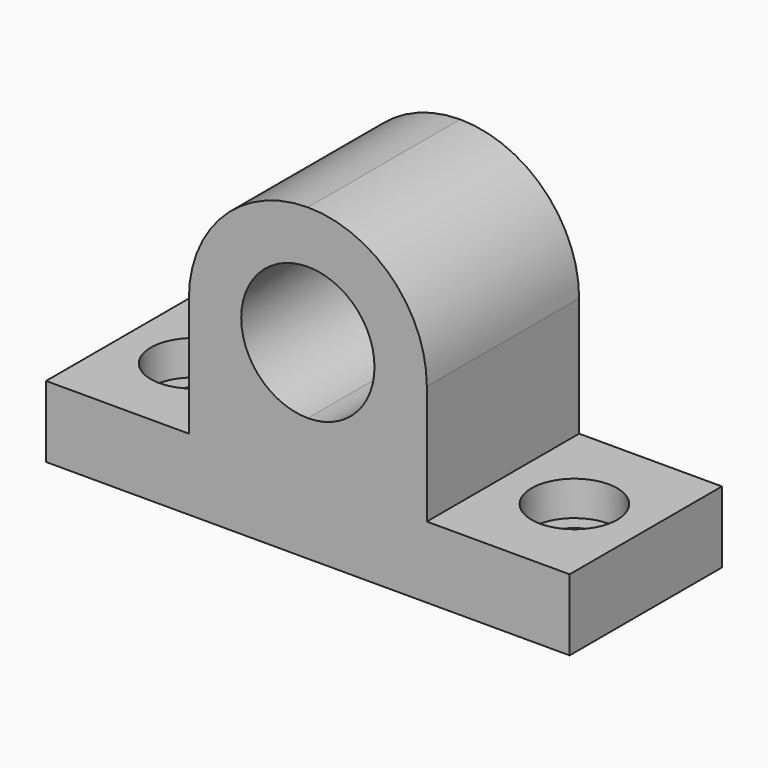
from build123d import *

# Parameters (mm, degrees)
F1_DEPTH = 40
F2_R     = 9
F3_DEPTH = 7.3
F4_R     = 5.5
F5_DEPTH = 7.7
F6_R     = 9
F7_DEPTH = 7.3


with BuildPart() as f1:
    # F0 (on Front) → F1 (new body)
    with BuildSketch(Plane.XZ):
        with BuildLine():
            Line((0, 15), (0, 0))
            Line((0, 0), (55, 0))
            Line((55, 0), (55, 26))
            ThreePointArc((55, 26), (41, 40), (55, 54))
            Line((55, 54), (55, 65))
            ThreePointArc((55, 65), (37.3223304703, 57.6776695297), (30, 40))
            Line((30, 40), (30, 15))
            Line((30, 15), (0, 15))
        make_face()
        with BuildLine():
            Line((55, 26), (55, 0))
            Line((55, 0), (110, 0))
            Line((110, 0), (110, 15))
            Line((110, 15), (80, 15))
            Line((80, 15), (80, 40))
            ThreePointArc((80, 40), (72.6776695297, 57.6776695297), (55, 65))
            Line((55, 65), (55, 54))
            ThreePointArc((55, 54), (64.8994949366, 49.8994949366), (69, 40))
            ThreePointArc((69, 40), (64.8994949366, 30.1005050634), (55, 26))
        make_face()
    extrude(amount=F1_DEPTH)

    # F2 (on face) → F3 (cut)
    with BuildSketch(Plane.XY.offset(15)):
        with Locations((15, -20)):
            Circle(F2_R)
    extrude(amount=-F3_DEPTH, mode=Mode.SUBTRACT)

    # F4 (on face) → F5 (cut)
    with BuildSketch(Plane(origin=(0, 0, 0), x_dir=(1, 0, 0), z_dir=(0, 0, -1))):
        with Locations((15, 20)):
            Circle(F4_R)
        with Locations((95, 20)):
            Circle(F4_R)
    extrude(amount=-F5_DEPTH, mode=Mode.SUBTRACT)

    # F6 (on face) → F7 (cut)
    with BuildSketch(Plane.XY.offset(15)):
        with Locations((95, -20)):
            Circle(F6_R)
    extrude(amount=-F7_DEPTH, mode=Mode.SUBTRACT)


solid = f1.part
